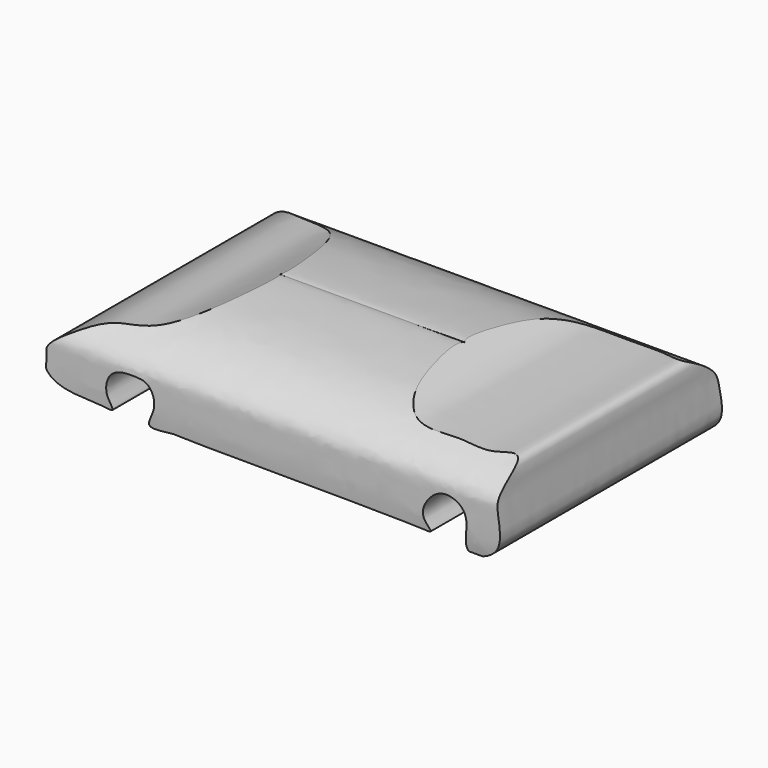
from build123d import *

# Parameters (mm, degrees)
F0_W     = 254
F0_H     = 144.8562
F1_DEPTH = 101.6
F2_W     = 291.8607164174
F2_H     = 154.3836444616
F3_DEPTH = 207.71354
F4_W     = 219.6352891624
F4_H     = 104.4651865959
F5_DEPTH = 260.29779


with BuildPart() as f1:
    # F0 (on Top) → F1 (new body)
    with BuildSketch(Plane.XY):
        with Locations((127, 72.4281)):
            Rectangle(F0_W, F0_H)
    extrude(amount=F1_DEPTH)

    # F2 (on face) → F3 (cut)
    with BuildSketch(Plane.XZ):
        with Locations((128.2517230138, 45.7749441266)):
            Rectangle(F2_W, F2_H)
        with BuildLine():
            add(Edge.make_bspline(
                [(0, 12.1792443097), (-1.498400129, 14.8092652189), (-1.5275870572, 22.3187855784), (9.0772033996, 29.1909329588), (18.4124837672, 33.9208982502), (27.7118439184, 36.0985091321), (45.7066207255, 36.8044237798), (75.473567139, 53.6759153037), (115.8817933597, 52.5681429069), (150.3045885045, 47.379782397), (168.84483088, 36.1821047272), (191.191369228, 38.1309418649), (207.792979028, 36.3847208148), (223.607013634, 40.6684597178), (221.2118614354, 23.5938155342), (228.8896645991, 4.0092084201), (203.4890183605, -5.0651738577), (210.8712699744, 15.055788598), (200.602188191, 22.3305628916), (190.9273242255, 20.6870036018), (183.7674220804, 9.0869045497), (192.46695238, 1.9527840956), (179.8221406551, 3.6814687964), (65.2714835471, 3.1513610378), (62.5836878802, 4.2431275338), (46.9991599194, 1.4077138975), (55.6111848496, 12.239448483), (50.9210825711, 21.6774353462), (45.4461342326, 22.7149790268), (37.0598504757, 22.7044451711), (32.7126288116, 20.8030758659), (29.7539652156, 17.3282449211), (29.1574919291, 10.1417435123), (34.915042078, 3.5289819217), (26.3049746344, 5.3889278529), (9.7300770491, 4.9816827794), (1.6850339128, 9.2216401707), (0, 12.1792443097)],
                knots=[0, 0, 0, 0, 0.023219518, 0.0500487914, 0.0751969105, 0.098544488, 0.1305338212, 0.1753610744, 0.2250145662, 0.2705064816, 0.3058530209, 0.3416734309, 0.3745343795, 0.4009426942, 0.4291182429, 0.4631202458, 0.4931822451, 0.5219461456, 0.5468838216, 0.5701662197, 0.5962886399, 0.616395464, 0.6376426268, 0.7208415614, 0.7409760631, 0.7650587367, 0.787721122, 0.8112911431, 0.8291281032, 0.8513927452, 0.8680072818, 0.8838038873, 0.9045905443, 0.9232766131, 0.9410385586, 0.9738883663, 1, 1, 1, 1], degree=3))
        make_face(mode=Mode.SUBTRACT)
    extrude(amount=-F3_DEPTH, mode=Mode.SUBTRACT)

    # F4 (on Right) → F5 (cut)
    with BuildSketch(Plane.YZ):
        with Locations((69.6290824562, 12.0891705155)):
            Rectangle(F4_W, F4_H)
        with BuildLine():
            add(Edge.make_bspline(
                [(76.4399170876, 44.9421778321), (74.5678267246, 45.7908095767), (49.3720677107, 44.3445140671), (26.3807265954, 40.6004139482), (7.3433859501, 27.8137776153), (8.6432373438, 18.5853639501), (2.8865450144, -26.7992654554), (69.2147540259, -17.7306840673), (76.1626046684, -12.9708654017), (76.2886402885, -12.8762301511)],
                knots=[0, 0, 0, 0, 0.116357646, 0.2416870234, 0.3456991332, 0.4168323241, 0.5517845758, 0.7350852801, 0.7387908636, 0.7387908636, 0.7387908636, 0.7387908636], degree=3))
            add(Edge.make_bspline(
                [(76.4399170876, 44.9421778321), (78.3164225303, 45.7810017042), (103.5042684265, 44.2028819064), (126.4757026785, 40.3385242126), (145.4458729116, 27.4524445573), (144.0977489732, 18.2309590876), (149.6168742993, -27.183172507), (83.3370273688, -17.7676337582), (76.4141789768, -12.9715236239), (76.2886402885, -12.8762301511)],
                knots=[0, 0, 0, 0, 0.116357646, 0.2416870234, 0.3456991332, 0.4168323241, 0.5517845758, 0.7350852801, 0.7387908636, 0.7387908636, 0.7387908636, 0.7387908636], degree=3))
        make_face(mode=Mode.SUBTRACT)
    extrude(amount=F5_DEPTH, mode=Mode.SUBTRACT)


solid = f1.part
